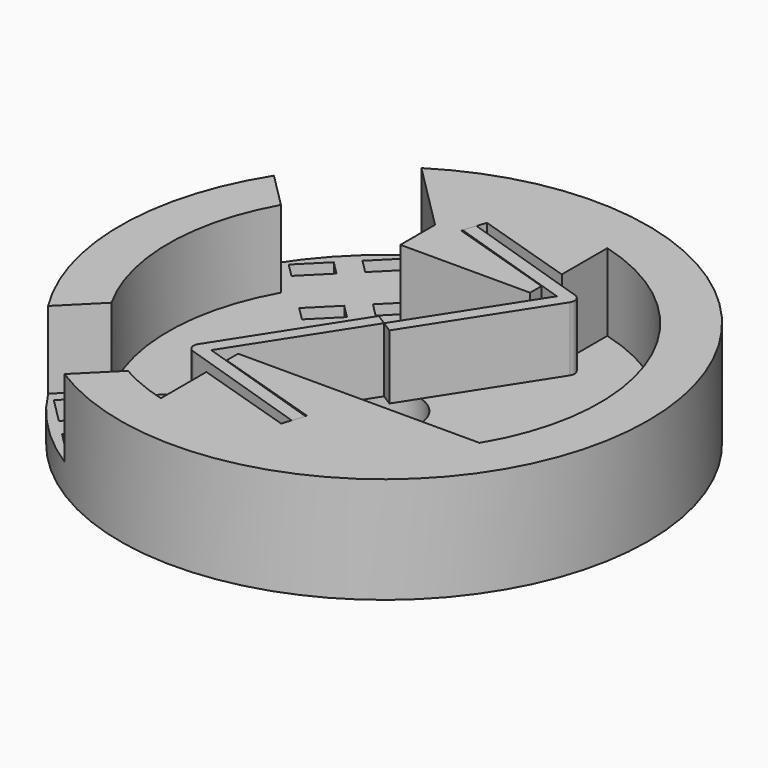
from build123d import *

# Parameters (mm, degrees)
SKETCH_R                = 8.2
PAD_DEPTH               = 3.3
POCKET_DEPTH            = 2.4
POCKET001_DEPTH         = 2
POLARPATTERN_COUNT      = 2
POCKET002_DEPTH         = 2.4
SKETCH006_R             = 1.1
POCKET003_DEPTH         = 3.301
POCKET004_DEPTH         = 50.154388
POLARPATTERN001_COUNT   = 2
POLARPATTERN001_ANGLE   = 90
SKETCH008_R             = 1
POCKET005_DEPTH         = 1.3
SKETCH009_W             = 1.344882
SKETCH009_H             = 1.344882
POCKET006_DEPTH         = 2.4
PAD001_DEPTH            = 2
PAD002_DEPTH            = 2
BODY002_PLACEMENT_ANGLE = 180


with BuildPart() as lid:
    # Sketch → Pad (new body)
    with BuildSketch(Plane.XY):
        Circle(SKETCH_R)
    extrude(amount=PAD_DEPTH)

    # Sketch001 (on Face3 of Pad) → Pocket (cut)
    with BuildSketch(Plane.XY.offset(3.3)):
        with BuildLine():
            ThreePointArc((5.735378, -3.463444), (6.220794, 2.488318), (1.764622, 6.463444))
            Line((1.764622, 3.463444), (1.764622, 6.463444))
            Line((-5.735378, 3.463444), (1.764622, 3.463444))
            ThreePointArc((-5.735378, 3.463444), (-6.220794, -2.488318), (-1.764622, -6.463444))
            Line((-1.764622, -3.463444), (-1.764622, -6.463444))
            Line((5.735378, -3.463444), (-1.764622, -3.463444))
        make_face()
    extrude(amount=-POCKET_DEPTH, mode=Mode.SUBTRACT)

    # Sketch002 (on Face3 of Pocket) → Pocket001 (cut)
    with BuildSketch(Plane.XY.offset(3.3)):
        Polygon((-1.572379, 4.963444), (1.764622, 3.907783), (1.764622, 4.694417), (-1.346166, 5.678516), align=None)
    pocket001 = extrude(amount=-POCKET001_DEPTH, mode=Mode.SUBTRACT)

    # PolarPattern: Pocket001 ×2 about axis
    polarpattern_axis = Axis((0, 0, 3.3), (0, 0, 1))
    for i in range(1, POLARPATTERN_COUNT):
        add(pocket001.rotate(polarpattern_axis, i * 360 / POLARPATTERN_COUNT), mode=Mode.SUBTRACT)

    # Sketch003 (on Face3 of PolarPattern) → Pocket002 (cut)
    with BuildSketch(Plane.XY.offset(3.3)):
        Polygon((-2.262742, -4.808326), (-4.808326, -2.262742), (-6.929646, -4.384062), (-7.636753, -5.091169), (-5.091169, -7.636753), (-4.384062, -6.929646), align=None)
        Polygon((-4.808326, 2.262742), (-2.262742, 4.808326), (-4.384062, 6.929646), (-5.091169, 7.636753), (-7.636753, 5.091169), (-6.929646, 4.384062), align=None)
    extrude(amount=-POCKET002_DEPTH, mode=Mode.SUBTRACT)

    # Sketch006 (on Face2 of Pocket002) → Pocket003 (cut, through all)
    with BuildSketch(Plane(origin=(0, 0, 0), x_dir=(1, 0, 0), z_dir=(0, 0, -1))):
        Circle(SKETCH006_R)
    extrude(amount=-POCKET003_DEPTH, mode=Mode.SUBTRACT)

    # Sketch007 → Pocket004 (cut, through all)
    with BuildSketch(Plane.XY):
        Polygon((-4.560839, -2.510229), (-4.985103, -2.934493), (-4.207285, -3.712311), (-3.783021, -3.288047), align=None)
        Polygon((-3.712311, -4.207285), (-2.934493, -4.985103), (-2.510229, -4.560839), (-3.288047, -3.783021), align=None)
        Polygon((-5.338656, -5.833631), (-4.560839, -6.611448), (-4.136575, -6.187184), (-4.914392, -5.409367), align=None)
        Polygon((-6.611448, -4.560839), (-5.833631, -5.338656), (-5.409367, -4.914392), (-6.187184, -4.136575), align=None)
    pocket004 = extrude(amount=POCKET004_DEPTH, mode=Mode.SUBTRACT)

    # PolarPattern001: Pocket004 ×2 about axis
    polarpattern001_axis = Axis((0, 0, 0), (0, 0, -1))
    for i in range(1, POLARPATTERN001_COUNT):
        add(pocket004.rotate(polarpattern001_axis, i * POLARPATTERN001_ANGLE / (POLARPATTERN001_COUNT - 1)), mode=Mode.SUBTRACT)

    # Sketch008 → Pocket005 (cut)
    with BuildSketch(Plane.XY):
        with Locations((0, 4.8)):
            Circle(SKETCH008_R)
    pocket005 = extrude(amount=POCKET005_DEPTH, mode=Mode.SUBTRACT)

    # Mirrored: Pocket005 across XZ
    add(pocket005.mirror(Plane.XZ), mode=Mode.SUBTRACT)

    # Sketch009 (on Face3 of Mirrored) → Pocket006 (cut)
    with BuildSketch(Plane.XY.offset(3.3)):
        with Locations((-2.935183, 4.135885)):
            Rectangle(SKETCH009_W, SKETCH009_H)
    extrude(amount=-POCKET006_DEPTH, mode=Mode.SUBTRACT)


with BuildPart() as body001:
    # Sketch004 → Pad001 (new body)
    with BuildSketch(Plane.XY):
        with BuildLine():
            Line((0, 0), (-2.389976, -3.723326))
            Line((-2.389976, -3.723326), (1.57, -5.01))
            Line((1.57, -5.01), (1.446393, -5.390423))
            Line((1.446393, -5.390423), (-2.698481, -4.043671))
            ThreePointArc((-2.831614, -3.670861), (-2.856665, -3.889984), (-2.698481, -4.043671))
            Line((-0.336619, 0.216073), (-2.831614, -3.670861))
            Line((-0.336619, 0.216073), (0, 0))
        make_face()
    extrude(amount=PAD001_DEPTH)


with BuildPart() as body001_1:
    # Body001 placement: moved
    add(body001.part.moved(Location((0, 0, 1.3))))


with BuildPart() as body002:
    # Sketch005 → Pad002 (new body)
    with BuildSketch(Plane.XY):
        with BuildLine():
            Line((0, 0), (-2.389976, -3.723326))
            Line((-2.389976, -3.723326), (1.57, -5.01))
            Line((1.57, -5.01), (1.446393, -5.390423))
            Line((1.446393, -5.390423), (-2.698481, -4.043671))
            ThreePointArc((-2.831614, -3.670861), (-2.856665, -3.889984), (-2.698481, -4.043671))
            Line((-0.336619, 0.216073), (-2.831614, -3.670861))
            Line((-0.336619, 0.216073), (0, 0))
        make_face()
    extrude(amount=PAD002_DEPTH)


with BuildPart() as body002_1:
    # Body002 placement: moved
    add(body002.part.moved(Location((0, 0, 1.3))).rotate(Axis((0, 0, 1.3), (0, 0, 1)), BODY002_PLACEMENT_ANGLE))


solid = Compound([lid.part, body001_1.part, body002_1.part])
